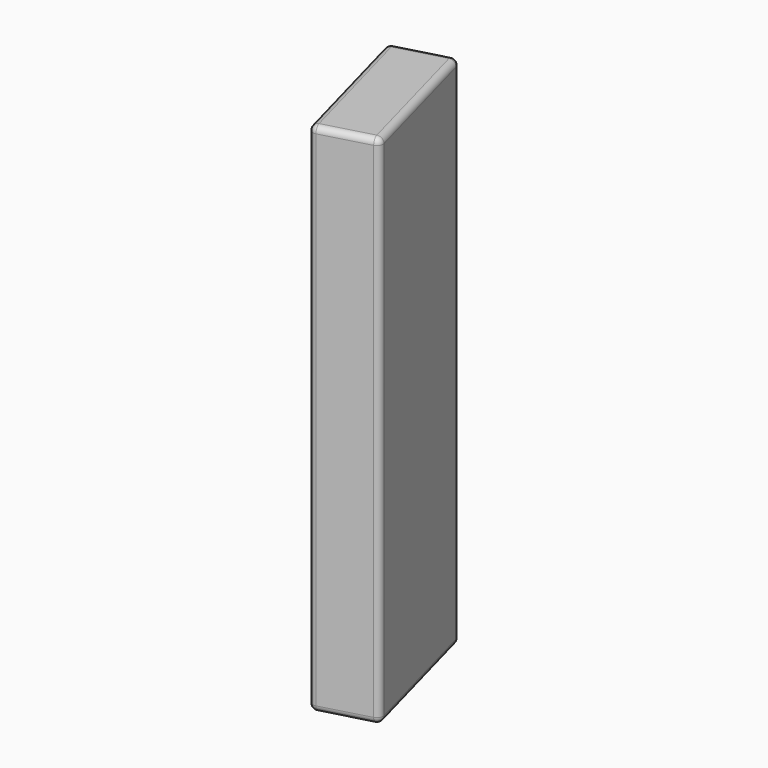
from build123d import *

# Parameters (mm, degrees)
F2_DEPTH = 8.4
F4_R     = 0.2


with BuildPart() as f2:
    # F1 (on Top) → F2 (new body)
    with BuildSketch(Plane.XY):
        Polygon((-31.005243456, 25.9445533505), (-32.9355241115, 25.4210874101), (-31.6268592603, 20.5953857712), (-29.6965786048, 21.1188517117), align=None)
    extrude(amount=F2_DEPTH)

    # F3: F2 across plane


with BuildPart() as f2_1:
    add(f2.part)
    add(f2.part.mirror(Plane.XY))

    # F4
    f4_edges = [f2_1.edges().sort_by_distance(p)[0] for p in [
        (-30.661719, 20.857119, 8.4),
        (-30.350911, 23.531703, 8.4),
        (-31.970384, 25.68282, 8.4),
        (-32.281192, 23.008237, 8.4),
        (-31.626859, 20.595386, 0),
        (-29.696579, 21.118852, 0),
        (-30.661719, 20.857119, -8.4),
        (-32.935524, 25.421087, 0),
        (-31.970384, 25.68282, -8.4),
        (-31.005243, 25.944553, 0),
        (-30.350911, 23.531703, -8.4),
        (-32.281192, 23.008237, -8.4),
    ]]
    fillet(f4_edges, radius=F4_R)


solid = f2_1.part
